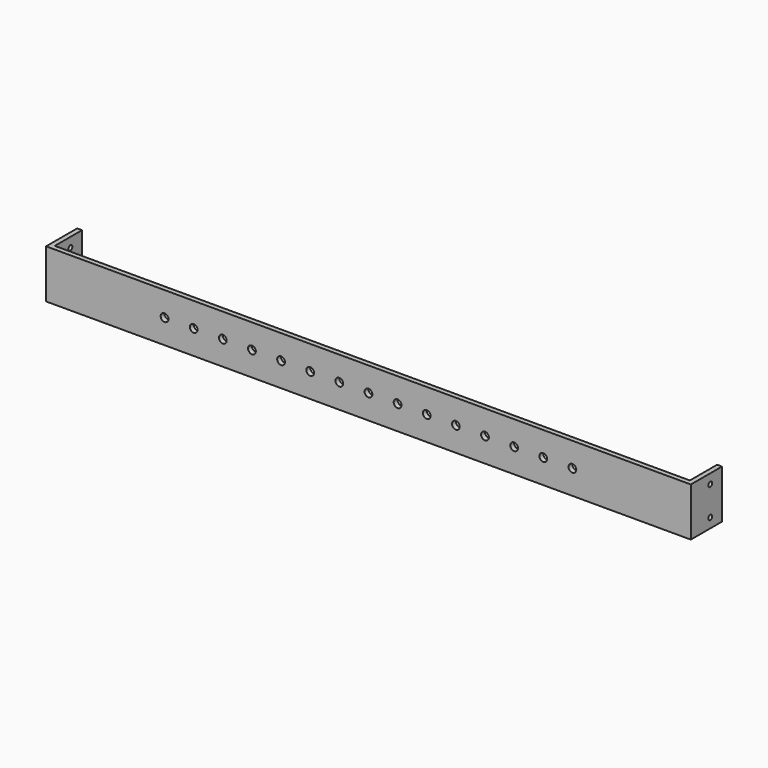
from build123d import *

# Parameters (mm, degrees)
F1_DEPTH      = 25
F2_R          = 4
F3_DEPTH      = 25
F4_R          = 2.5
F5_DEPTH      = 332.001
F5_DEPTH_BACK = 332.001


with BuildPart() as f1:
    # F0 (on Top) → F1 (new body, symmetric)
    with BuildSketch(Plane.XY):
        Polygon((-332, 0), (0, 0), (332, 0), (332, 40), (327, 40), (327, 5), (0, 5), (-327, 5), (-327, 40), (-332, 40), align=None)
    extrude(amount=F1_DEPTH, both=True)

    # F2 (on face) → F3 (cut)
    with BuildSketch(Plane.XZ):
        Circle(F2_R)
        with Locations((30, 0)):
            Circle(F2_R)
        with Locations((60, 0)):
            Circle(F2_R)
        with Locations((90, 0)):
            Circle(F2_R)
        with Locations((120, 0)):
            Circle(F2_R)
        with Locations((150, 0)):
            Circle(F2_R)
        with Locations((180, 0)):
            Circle(F2_R)
        with Locations((210, 0)):
            Circle(F2_R)
        with Locations((-30, 0)):
            Circle(F2_R)
        with Locations((-60, 0)):
            Circle(F2_R)
        with Locations((-90, 0)):
            Circle(F2_R)
        with Locations((-120, 0)):
            Circle(F2_R)
        with Locations((-150, 0)):
            Circle(F2_R)
        with Locations((-180, 0)):
            Circle(F2_R)
        with Locations((-210, 0)):
            Circle(F2_R)
    extrude(amount=-F3_DEPTH, mode=Mode.SUBTRACT)

    # F4 (on Right) → F5 (cut, two sides)
    with BuildSketch(Plane.YZ) as f5_sk:
        with Locations((25, 15)):
            Circle(F4_R)
        with Locations((25, -15)):
            Circle(F4_R)
    extrude(amount=F5_DEPTH, mode=Mode.SUBTRACT)
    extrude(f5_sk.sketch, amount=-F5_DEPTH_BACK, mode=Mode.SUBTRACT)


solid = f1.part
